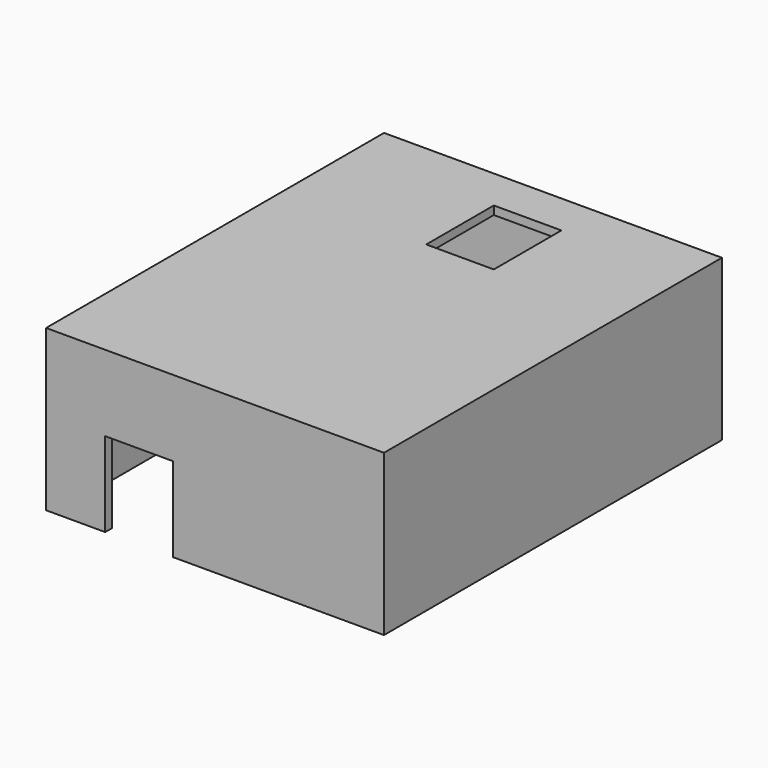
from build123d import *

# Parameters (mm, degrees)
F0_W     = 63.5
F0_H     = 79.375
F0_W_2   = 60.325
F0_H_2   = 76.2
F1_DEPTH = 30.1625
F2_W     = 60.325
F2_H     = 1.5875
F3_DEPTH = 76.2
F4_W     = 12.7
F4_H     = 15.875
F5_DEPTH = 1.5875
F6_W     = 12.7
F6_H     = 15.875
F7_DEPTH = 1.5875


with BuildPart() as f1:
    # F0 (on Top) → F1 (new body)
    with BuildSketch(Plane.XY):
        with Locations((31.75, 39.6875)):
            Rectangle(F0_W, F0_H)
        with Locations((31.75, 39.6875)):
            Rectangle(F0_W_2, F0_H_2, mode=Mode.SUBTRACT)
    extrude(amount=F1_DEPTH)

    # F2 (on face) → F3 (join)
    with BuildSketch(Plane.XZ.offset(-77.7875)):
        with Locations((31.75, 29.36875)):
            Rectangle(F2_W, F2_H)
    extrude(amount=F3_DEPTH)

    # F4 (on face) → F5 (cut)
    with BuildSketch(Plane.XY.offset(30.1625)):
        with Locations((33.3375, 63.5)):
            Rectangle(F4_W, F4_H)
    extrude(amount=-F5_DEPTH, mode=Mode.SUBTRACT)

    # F6 (on face) → F7 (cut)
    with BuildSketch(Plane.XZ):
        with Locations((17.4625, 7.9375)):
            Rectangle(F6_W, F6_H)
    extrude(amount=-F7_DEPTH, mode=Mode.SUBTRACT)


solid = f1.part
